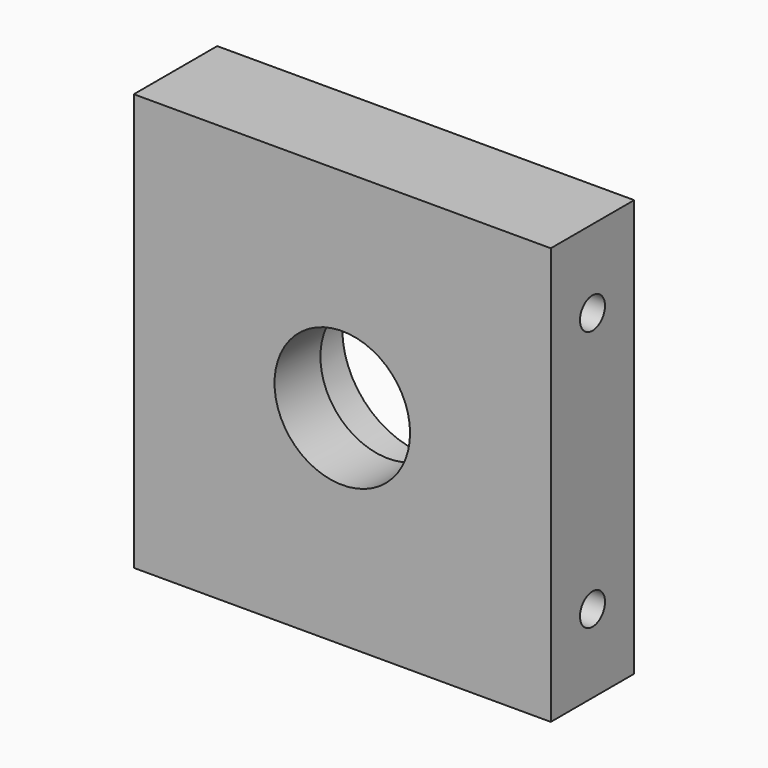
from build123d import *

# Parameters (mm, degrees)
F0_W     = 80
F0_H     = 80
F0_R     = 13
F1_DEPTH = 20
F2_R     = 16
F2_R_2   = 13
F3_DEPTH = 9
F4_R     = 3
F5_DEPTH = 20
F6_R     = 3
F7_DEPTH = 20


with BuildPart() as f1:
    # F0 (on Front) → F1 (new body)
    with BuildSketch(Plane.XZ):
        with Locations((40, 40)):
            Rectangle(F0_W, F0_H)
        with Locations((40, 40)):
            Circle(F0_R, mode=Mode.SUBTRACT)
    extrude(amount=F1_DEPTH)

    # F2 (on face) → F3 (cut)
    with BuildSketch(Plane(origin=(0, 0, 0), x_dir=(-1, 0, 0), z_dir=(0, 1, 0))):
        with Locations((-40, 40)):
            Circle(F2_R)
        with Locations((-40, 40)):
            Circle(F2_R_2, mode=Mode.SUBTRACT)
    extrude(amount=-F3_DEPTH, mode=Mode.SUBTRACT)

    # F4 (on face) → F5 (cut)
    with BuildSketch(Plane.YZ.offset(80)):
        with Locations((-10, 65)):
            Circle(F4_R)
        with Locations((-10, 15)):
            Circle(F4_R)
    extrude(amount=-F5_DEPTH, mode=Mode.SUBTRACT)

    # F6 (on face) → F7 (cut)
    with BuildSketch(Plane(origin=(0, 0, 0), x_dir=(0, -1, 0), z_dir=(-1, 0, 0))):
        with Locations((10, 65)):
            Circle(F6_R)
        with Locations((10, 15)):
            Circle(F6_R)
    extrude(amount=-F7_DEPTH, mode=Mode.SUBTRACT)


solid = f1.part
